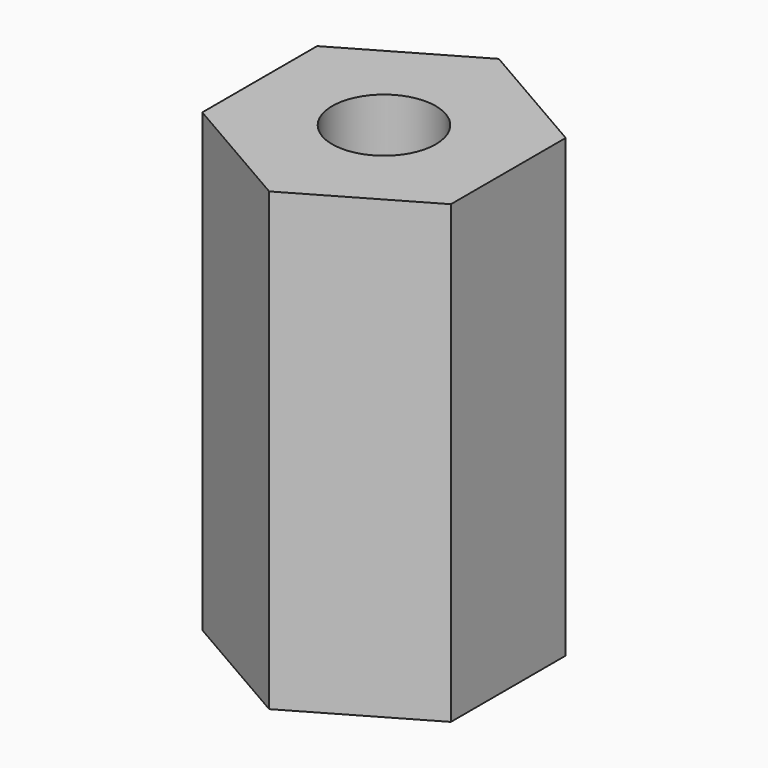
from build123d import *

# Parameters (mm, degrees)
PAD_DEPTH   = 11
SKETCH001_R = 1.25
HOLE_DEPTH  = 11.001


with BuildPart() as part:
    # Sketch → Pad (new body)
    with BuildSketch(Plane.XY):
        Polygon((-3, -1.732051), (0, -3.464102), (3, -1.732051), (3, 1.732051), (0, 3.464102), (-3, 1.732051), align=None)
    extrude(amount=PAD_DEPTH)

    # Sketch001 (on Face8 of Pad) → Hole (cut, through all)
    with BuildSketch(Plane.XY.offset(11)):
        Circle(SKETCH001_R)
    extrude(amount=-HOLE_DEPTH, mode=Mode.SUBTRACT)


solid = part.part
